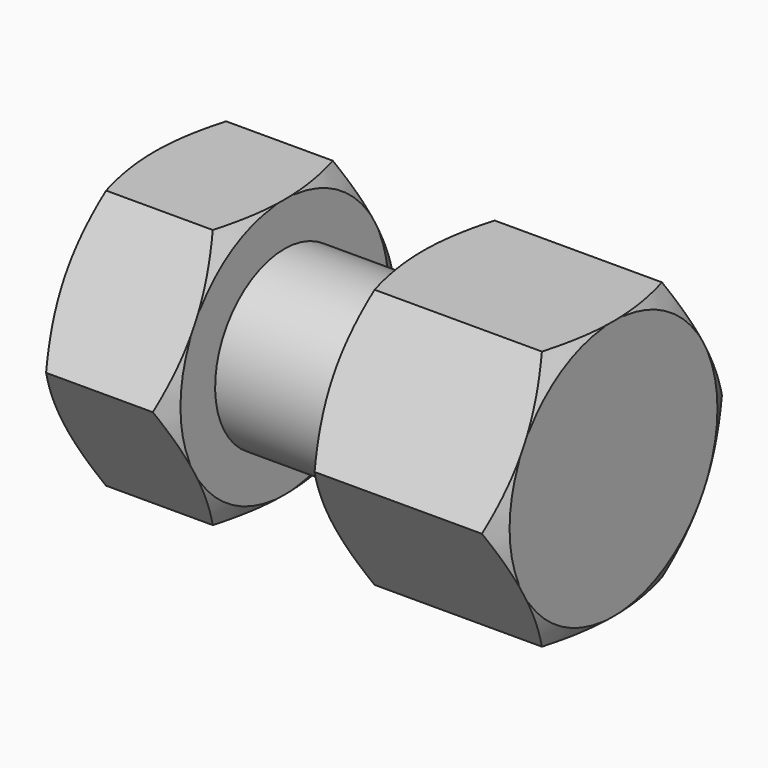
from build123d import *

# Parameters (mm, degrees)
F0_W     = 25.4
F0_H     = 7.9375
F3_DEPTH = 11.90625
F6_DEPTH = 17.4625


with BuildPart() as f1:
    # F0 (on Front) → F1 (revolve)
    with BuildSketch(Plane.XZ):
        with Locations((12.7, 3.96875)):
            Rectangle(F0_W, F0_H)
    revolve(axis=Axis((12.7, 0, 0), (1, 0, 0)))

    # F2 (on Right) → F3 (join)
    with BuildSketch(Plane.YZ):
        Polygon((6.874077, 11.90625), (-6.874077, 11.90625), (-13.748153, 0), (-6.874077, -11.90625), (6.874077, -11.90625), (13.748153, 0), align=None)
    extrude(amount=F3_DEPTH)

    # F5 (on offset) → F6 (join)
    with BuildSketch(Plane.YZ.offset(24.60625)):
        Polygon((6.874077, -11.90625), (13.748153, 0), (6.874077, 11.90625), (-6.874077, 11.90625), (-13.748153, 0), (-6.874077, -11.90625), align=None)
    extrude(amount=F6_DEPTH)

    # F7 (on Front) → F8 (revolve, cut)
    with BuildSketch(Plane.XZ):
        Polygon((0, 18.750624), (0, 11.90625), (3.951601, 18.750624), align=None)
        Polygon((7.954649, 18.750624), (11.90625, 11.90625), (11.90625, 18.750624), align=None)
        Polygon((24.60625, 18.750624), (24.60625, 11.90625), (28.557851, 18.750624), align=None)
        Polygon((42.06875, 11.90625), (42.06875, 18.750624), (38.117149, 18.750624), align=None)
    revolve(axis=Axis((39.392542, 0, 0), (1, 0, 0)), mode=Mode.SUBTRACT)


solid = f1.part
